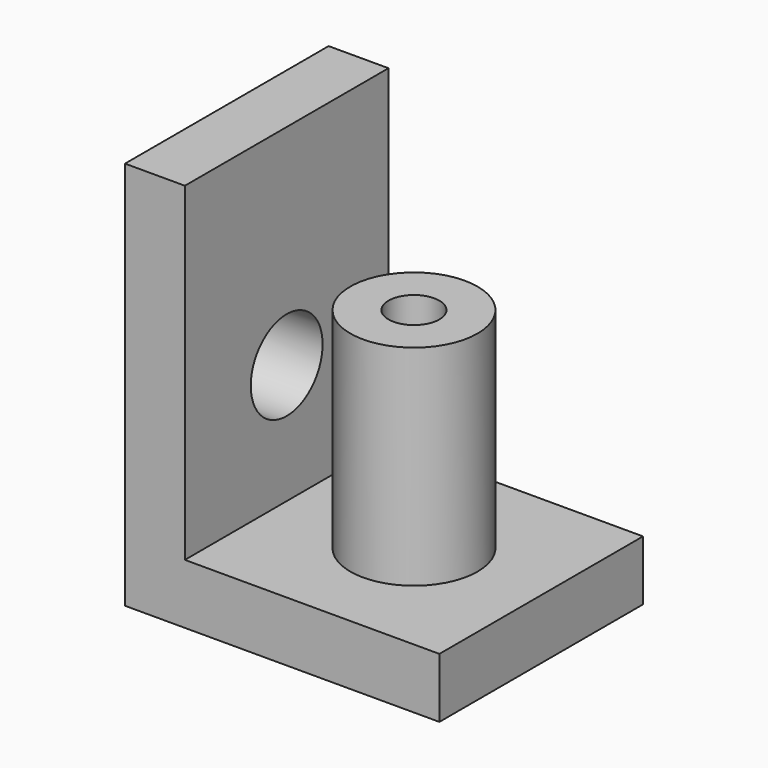
from build123d import *

# Parameters (mm, degrees)
SKETCH007_W   = 8.5
SKETCH007_H   = 8.5
PAD005_DEPTH  = 2
SKETCH008_R   = 2.125
SKETCH008_R_2 = 0.85
PAD006_DEPTH  = 7
SKETCH009_W   = 8.5
SKETCH009_H   = 13
SKETCH009_R   = 1.5
PAD007_DEPTH  = 2


with BuildPart() as part:
    # Sketch007 → Pad005 (new body)
    with BuildSketch(Plane.XY):
        with Locations((4.25, 4.25)):
            Rectangle(SKETCH007_W, SKETCH007_H)
    extrude(amount=PAD005_DEPTH)

    # Sketch008 (on Face6 of Pad005) → Pad006 (join)
    with BuildSketch(Plane.XY.offset(2)):
        with Locations((4.25, 4.25)):
            Circle(SKETCH008_R)
        with Locations((4.25, 4.25)):
            Circle(SKETCH008_R_2, mode=Mode.SUBTRACT)
    extrude(amount=PAD006_DEPTH)

    # Sketch009 (on Face2 of Pad006) → Pad007 (join)
    with BuildSketch(Plane(origin=(0, 0, 0), x_dir=(0, -1, 0), z_dir=(-1, 0, 0))):
        with Locations((-4.25, 6.5)):
            Rectangle(SKETCH009_W, SKETCH009_H)
        with Locations((-4.25, 6)):
            Circle(SKETCH009_R, mode=Mode.SUBTRACT)
    extrude(amount=PAD007_DEPTH)


solid = part.part
